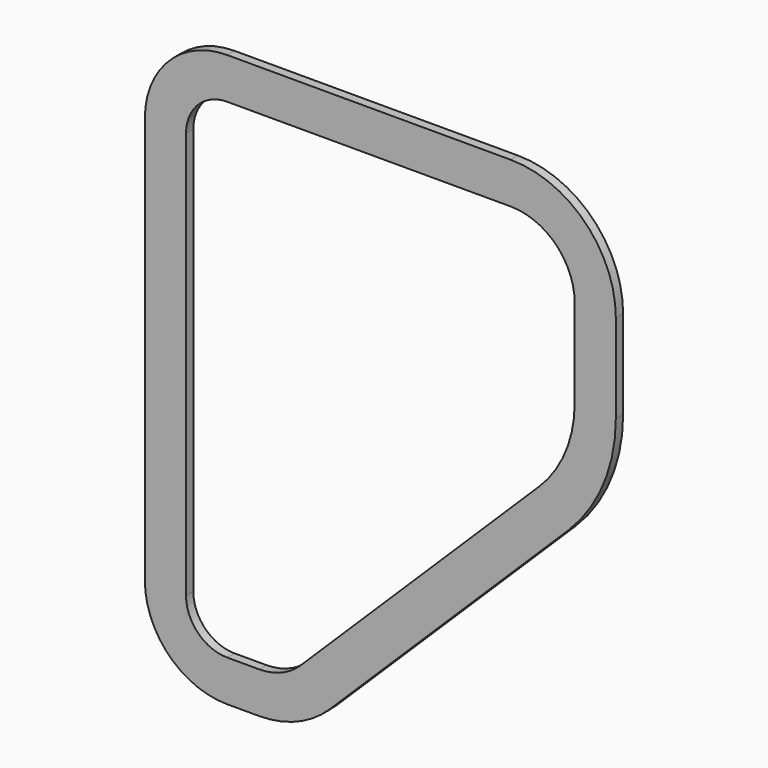
from build123d import *

# Parameters (mm, degrees)
F1_DEPTH = 2.54
F2_R     = 22.86
F3_R     = 29.21
F4_R     = 44.45
F5_R     = 22.86
F6_R     = 27.94
F8_DEPTH = 2.54


with BuildPart() as f1:
    # F0 (on Front) → F1 (new body)
    with BuildSketch(Plane.XZ):
        Polygon((64.1644249716, 70.274220109), (-66.6455750284, 70.274220109), (-66.6455750284, -88.475779891), (-23.4655750284, -88.475779891), (64.1644249716, -2.115779891), align=None)
    extrude(amount=F1_DEPTH)

    # F2
    f2_edges = [f1.edges().sort_by_distance(p)[0] for p in [
        (-66.645575, -1.27, 70.27422),
    ]]
    fillet(f2_edges, radius=F2_R)

    # F3
    f3_edges = [f1.edges().sort_by_distance(p)[0] for p in [
        (64.164425, -1.27, 70.27422),
    ]]
    fillet(f3_edges, radius=F3_R)

    # F4
    f4_edges = [f1.edges().sort_by_distance(p)[0] for p in [
        (64.164425, -1.27, -2.11578),
    ]]
    fillet(f4_edges, radius=F4_R)

    # F5
    f5_edges = [f1.edges().sort_by_distance(p)[0] for p in [
        (-66.645575, -1.27, -88.47578),
    ]]
    fillet(f5_edges, radius=F5_R)

    # F6
    f6_edges = [f1.edges().sort_by_distance(p)[0] for p in [
        (-23.465575, -1.27, -88.47578),
    ]]
    fillet(f6_edges, radius=F6_R)

    # F7 (on face) → F8 (cut, through all)
    with BuildSketch(Plane.XZ.offset(2.54)):
        with BuildLine():
            ThreePointArc((42.8920452321, -7.0321095397), (50.1746073496, 3.7388999191), (52.7344249716, 16.4863580775))
            Line((52.7344249716, 16.4863580775), (52.7344249716, 41.064220109))
            ThreePointArc((52.7344249716, 41.064220109), (47.5267835411, 53.6365786785), (34.9544249716, 58.844220109))
            Line((34.9544249716, 58.844220109), (-43.7855750284, 58.844220109))
            ThreePointArc((-43.7855750284, 58.844220109), (-51.8678055373, 55.4964506179), (-55.2155750284, 47.414220109))
            Line((-55.2155750284, 47.414220109), (-55.2155750284, -65.615779891))
            ThreePointArc((-55.2155750284, -65.615779891), (-51.8678055373, -73.6980104), (-43.7855750284, -77.045779891))
            Line((-43.7855750284, -77.045779891), (-34.9194176486, -77.045779891))
            ThreePointArc((-34.9194176486, -77.045779891), (-28.6570239441, -75.8119877022), (-23.3306075184, -72.2950136996))
            Line((-23.3306075184, -72.2950136996), (42.8920452321, -7.0321095397))
        make_face()
    extrude(amount=-F8_DEPTH, mode=Mode.SUBTRACT)


solid = f1.part
